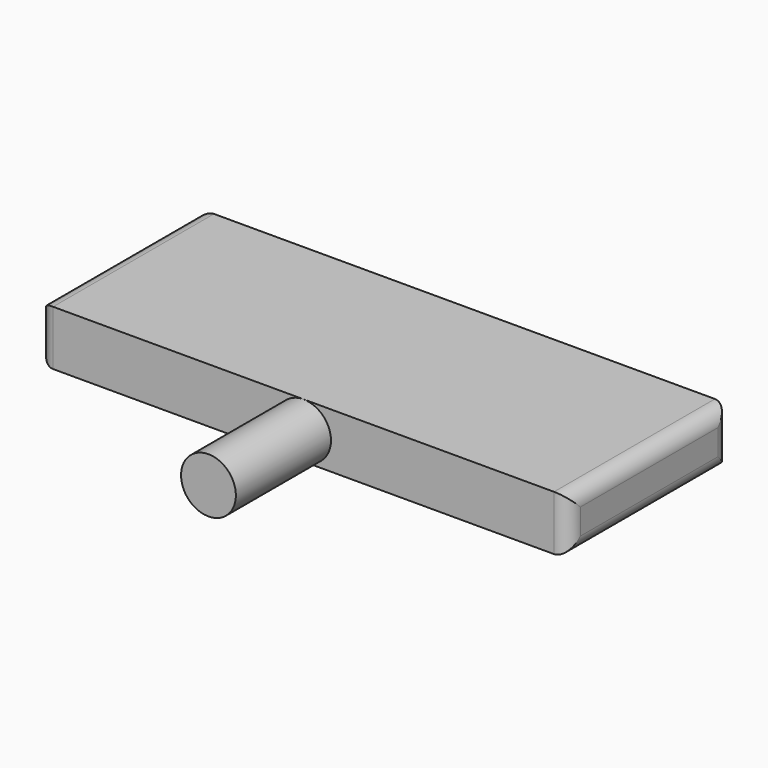
from build123d import *

# Parameters (mm, degrees)
F0_R     = 19.05
F1_DEPTH = 152.4
F2_D     = 11.90498
F2_DEPTH = 101.6
F2_TIP   = 3.5766168262
F3_W     = 368.3
F3_H     = 139.7
F4_DEPTH = 19.05
F5_R     = 10.16
F6_R     = 10.16


with BuildPart() as f1:
    # F0 (on Front) → F1 (new body)
    with BuildSketch(Plane.XZ):
        Circle(F0_R)
        Circle(F0_R)
    extrude(amount=F1_DEPTH)

    # F2
    with Locations(Plane(origin=(0, 0, 0), x_dir=(1, 0, 0), z_dir=(0, 1, 0))):
        with Locations((0, 0)):
            Hole(F2_D / 2, depth=F2_DEPTH)
            with Locations((0, 0, -(F2_DEPTH + F2_TIP / 2))):  # 118° drill point
                Cone(0, F2_D / 2, F2_TIP, mode=Mode.SUBTRACT)


with BuildPart() as f4:
    # F3 (on Top) → F4 (new body, symmetric)
    with BuildSketch(Plane.XY):
        Rectangle(F3_W, F3_H)
    extrude(amount=F4_DEPTH, both=True)

    # F5
    f5_edges = [f4.edges().sort_by_distance(p)[0] for p in [
        (-184.15, 69.85, 0),
        (-184.15, 0, -19.05),
        (-184.15, -69.85, 0),
        (-184.15, 0, 19.05),
    ]]
    fillet(f5_edges, radius=F5_R)

    # F6
    f6_edges = [f4.edges().sort_by_distance(p)[0] for p in [
        (184.15, 0, -19.05),
        (184.15, 69.85, 0),
        (184.15, 0, 19.05),
        (184.15, -69.85, 0),
    ]]
    fillet(f6_edges, radius=F6_R)


solid = Compound([f1.part, f4.part])
